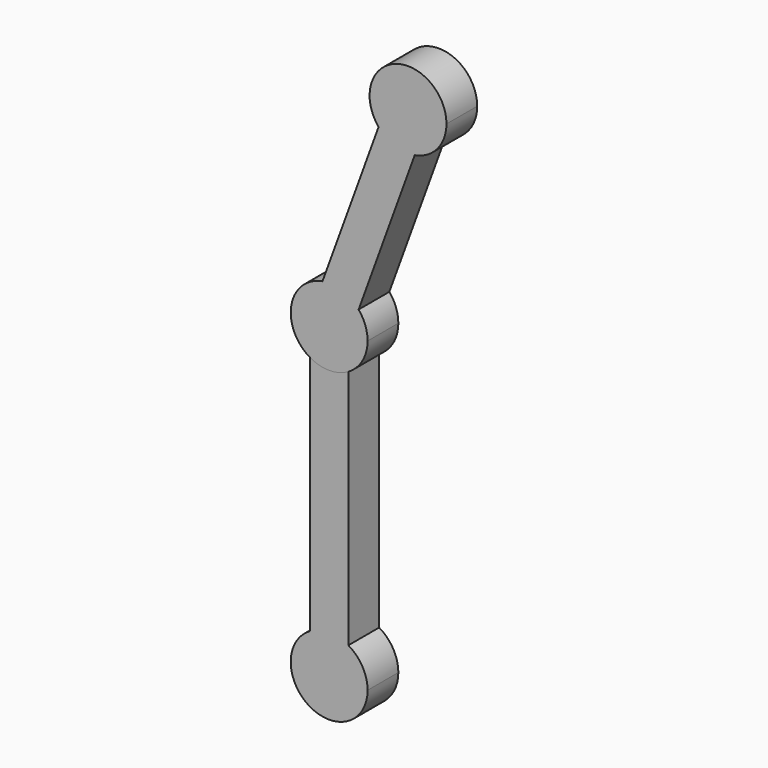
from build123d import *

# Parameters (mm, degrees)
F1_DEPTH = 25.4
F2_DEPTH = 25.4


with BuildPart() as f1:
    # F0 (on Front) → F1 (new body)
    with BuildSketch(Plane.XZ):
        with BuildLine():
            Line((12.7, -181.2029547439), (12.7, -21.9970452561))
            ThreePointArc((12.7, -21.9970452561), (6.5740037456, -24.5345159877), (0, -25.4))
            Line((0, -25.4), (0, -177.8))
            ThreePointArc((0, -177.8), (6.5740037456, -178.6654840123), (12.7, -181.2029547439))
        make_face()
        with BuildLine():
            ThreePointArc((25.4, -203.2), (21.9970452561, -190.5), (12.7, -181.2029547439))
            ThreePointArc((12.7, -181.2029547439), (6.5740037456, -178.6654840123), (0, -177.8))
            ThreePointArc((0, -177.8), (-6.5740037456, -178.6654840123), (-12.7, -181.2029547439))
            ThreePointArc((-12.7, -181.2029547439), (-12.7, -225.1970452561), (25.4, -203.2))
        make_face()
        with BuildLine():
            Line((0, -177.8), (0, -25.4))
            ThreePointArc((0, -25.4), (-6.5740037456, -24.5345159877), (-12.7, -21.9970452561))
            Line((-12.7, -21.9970452561), (-12.7, -181.2029547439))
            ThreePointArc((-12.7, -181.2029547439), (-6.5740037456, -178.6654840123), (0, -177.8))
        make_face()
        with BuildLine():
            Line((12.7, -2.239352655), (19.4575288552, 16.326805286))
            ThreePointArc((19.4575288552, 16.326805286), (14.5688414833, 20.8064619249), (8.6873116405, 23.868192568))
            Line((8.6873116405, 23.868192568), (0, 0))
            Line((0, 0), (0, -25.4))
            ThreePointArc((0, -25.4), (6.5740037456, -24.5345159877), (12.7, -21.9970452561))
            Line((12.7, -21.9970452561), (12.7, -2.239352655))
        make_face()
        with BuildLine():
            Line((0, 0), (8.6873116405, 23.868192568))
            ThreePointArc((8.6873116405, 23.868192568), (2.2137558658, 25.3033453315), (-4.4106637127, 25.0141169265))
            ThreePointArc((-4.4106637127, 25.0141169265), (-25.0141169265, 4.4106637127), (-12.7, -21.9970452561))
            ThreePointArc((-12.7, -21.9970452561), (-6.5740037456, -24.5345159877), (0, -25.4))
            Line((0, -25.4), (0, 0))
        make_face()
        with BuildLine():
            ThreePointArc((12.7, -21.9970452561), (21.9970452561, -12.7), (25.4, 0))
            ThreePointArc((25.4, 0), (23.868192568, 8.6873116405), (19.4575288552, 16.326805286))
            Line((19.4575288552, 16.326805286), (12.7, -2.239352655))
            Line((12.7, -2.239352655), (12.7, -21.9970452561))
        make_face()
    extrude(amount=F1_DEPTH)


with BuildPart() as f2:
    # F0 (on Front) → F2 (new body)
    with BuildSketch(Plane.XZ):
        with BuildLine():
            ThreePointArc((43.4365582024, 119.3409628398), (49.910113977, 117.9058100762), (56.5345335556, 118.1950384813))
            ThreePointArc((56.5345335556, 118.1950384813), (71.5813986981, 126.8823501217), (77.5238698428, 143.2091554078))
            ThreePointArc((77.5238698428, 143.2091554078), (43.4365582024, 167.0773479757), (32.6663409876, 126.8823501217))
            ThreePointArc((32.6663409876, 126.8823501217), (37.5550283595, 122.4026934828), (43.4365582024, 119.3409628398))
        make_face()
        with BuildLine():
            ThreePointArc((8.6873116405, 23.868192568), (14.5688414833, 20.8064619249), (19.4575288552, 16.326805286))
            Line((19.4575288552, 16.326805286), (56.5345335556, 118.1950384813))
            ThreePointArc((56.5345335556, 118.1950384813), (49.910113977, 117.9058100762), (43.4365582024, 119.3409628398))
            Line((43.4365582024, 119.3409628398), (8.6873116405, 23.868192568))
        make_face()
        with BuildLine():
            ThreePointArc((-4.4106637127, 25.0141169265), (2.2137558658, 25.3033453315), (8.6873116405, 23.868192568))
            Line((8.6873116405, 23.868192568), (43.4365582024, 119.3409628398))
            ThreePointArc((43.4365582024, 119.3409628398), (37.5550283595, 122.4026934828), (32.6663409876, 126.8823501217))
            Line((32.6663409876, 126.8823501217), (-4.4106637127, 25.0141169265))
        make_face()
        with BuildLine():
            ThreePointArc((12.7, -21.9970452561), (21.9970452561, -12.7), (25.4, 0))
            ThreePointArc((25.4, 0), (23.868192568, 8.6873116405), (19.4575288552, 16.326805286))
            Line((19.4575288552, 16.326805286), (12.7, -2.239352655))
            Line((12.7, -2.239352655), (12.7, -21.9970452561))
        make_face()
        with BuildLine():
            Line((12.7, -2.239352655), (19.4575288552, 16.326805286))
            ThreePointArc((19.4575288552, 16.326805286), (14.5688414833, 20.8064619249), (8.6873116405, 23.868192568))
            Line((8.6873116405, 23.868192568), (0, 0))
            Line((0, 0), (0, -25.4))
            ThreePointArc((0, -25.4), (6.5740037456, -24.5345159877), (12.7, -21.9970452561))
            Line((12.7, -21.9970452561), (12.7, -2.239352655))
        make_face()
        with BuildLine():
            Line((0, 0), (8.6873116405, 23.868192568))
            ThreePointArc((8.6873116405, 23.868192568), (2.2137558658, 25.3033453315), (-4.4106637127, 25.0141169265))
            ThreePointArc((-4.4106637127, 25.0141169265), (-25.0141169265, 4.4106637127), (-12.7, -21.9970452561))
            ThreePointArc((-12.7, -21.9970452561), (-6.5740037456, -24.5345159877), (0, -25.4))
            Line((0, -25.4), (0, 0))
        make_face()
    extrude(amount=F2_DEPTH)


solid = Compound([f1.part, f2.part])
